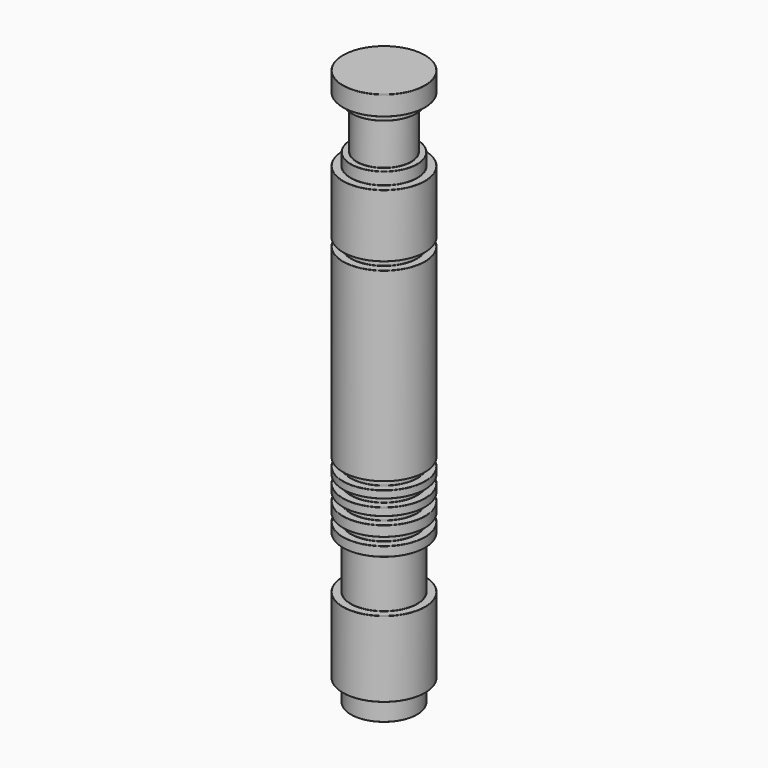
from build123d import *

# Parameters (mm, degrees)
F2_R = 0.0762


with BuildPart() as f1:
    # F0 (on Right) → F1 (revolve)
    with BuildSketch(Plane.YZ):
        Polygon((-6.854881, 0), (0, 0), (0, 115.018979), (-8.488284, 115.018979), (-8.488284, 110.97198), (-6.747312, 110.97198), (-6.747312, 109.30355), (-5.612337, 109.30355), (-5.612337, 100.158103), (-6.854881, 100.158103), (-6.854881, 97.624563), (-8.488284, 97.624563), (-8.488284, 84.627927), (-6.854881, 84.627927), (-6.854881, 82.978234), (-8.488284, 82.978234), (-8.488284, 44.629098), (-6.854881, 44.629098), (-6.854881, 43.008846), (-8.488284, 43.008846), (-8.488284, 41.481183), (-6.854881, 41.481183), (-6.854881, 39.907225), (-8.488284, 39.907225), (-8.488284, 38.286973), (-6.854881, 38.286973), (-6.854881, 36.654927), (-8.488284, 36.654927), (-8.488284, 34.51033), (-6.854881, 34.51033), (-6.854881, 32.860637), (-8.488284, 32.860637), (-8.488284, 30.881009), (-6.854881, 30.881009), (-6.854881, 20.158019), (-8.488284, 20.158019), (-8.488284, 4.485957), (-6.854881, 4.485957), align=None)
    revolve(axis=Axis((0, 0, 57.509489), (0, 0, -1)))

    # F2
    f2_edges = [f1.edges().sort_by_distance(p)[0] for p in [
        (0, 8.488284, 115.018979),
        (0, 8.488284, 110.97198),
        (0, 6.747312, 110.97198),
        (0, 6.747312, 109.30355),
        (0, 5.612337, 109.30355),
        (0, 6.854881, 100.158103),
        (0, 8.488284, 97.624563),
        (0, 5.612337, 100.158103),
        (0, 6.854881, 97.624563),
        (0, 8.488284, 84.627927),
        (0, 6.854881, 82.978234),
        (0, 8.488284, 82.978234),
        (0, 6.854881, 84.627927),
        (0, 8.488284, 44.629098),
        (0, 8.488284, 43.008846),
        (0, 8.488284, 41.481183),
        (0, 8.488284, 39.907225),
        (0, 8.488284, 38.286973),
        (0, 8.488284, 36.654927),
        (0, 8.488284, 34.51033),
        (0, 8.488284, 32.860637),
        (0, 8.488284, 30.881009),
        (0, 6.854881, 20.158019),
        (0, 8.488284, 20.158019),
        (0, 8.488284, 4.485957),
        (0, 6.854881, 0),
        (0, 6.854881, 4.485957),
        (0, 6.854881, 30.881009),
        (0, 6.854881, 34.51033),
        (0, 6.854881, 38.286973),
        (0, 6.854881, 41.481183),
        (0, 6.854881, 44.629098),
        (0, 6.854881, 32.860637),
        (0, 6.854881, 36.654927),
        (0, 6.854881, 39.907225),
        (0, 6.854881, 43.008846),
    ]]
    fillet(f2_edges, radius=F2_R)


solid = f1.part
